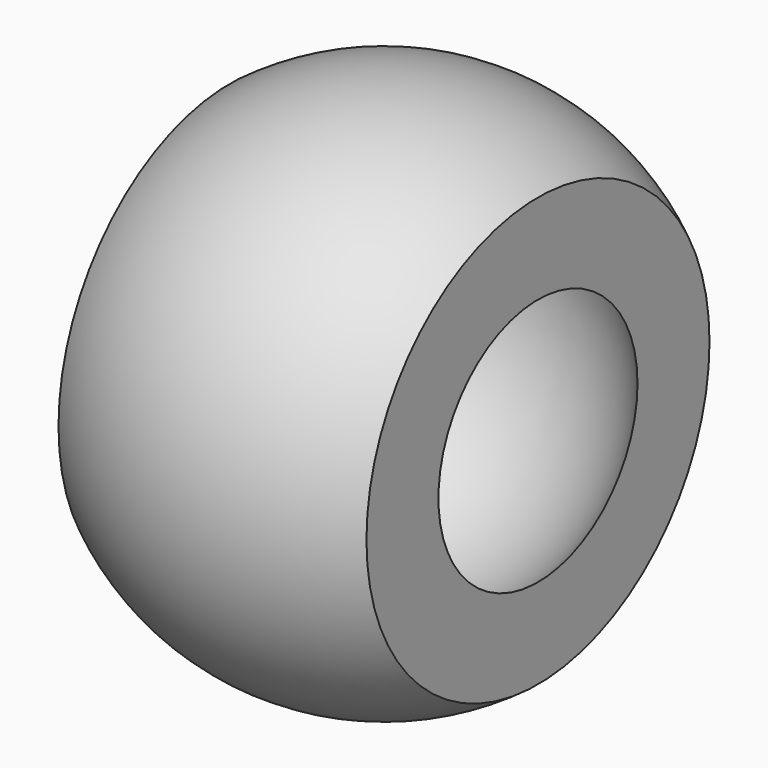
from build123d import *


with BuildPart() as part:
    # Sketch → Revolution (revolve)
    with BuildSketch(Plane.XY):
        with BuildLine():
            ThreePointArc((7, 9.746794), (0, 12), (-7, 9.746794))
            Line((-7, 5.656854), (-7, 9.746794))
            ThreePointArc((7, 5.656854), (0, 9), (-7, 5.656854))
            Line((7, 9.746794), (7, 5.656854))
        make_face()
    revolve(axis=Axis((0, 0, 0), (1, 0, 0)))


solid = part.part
